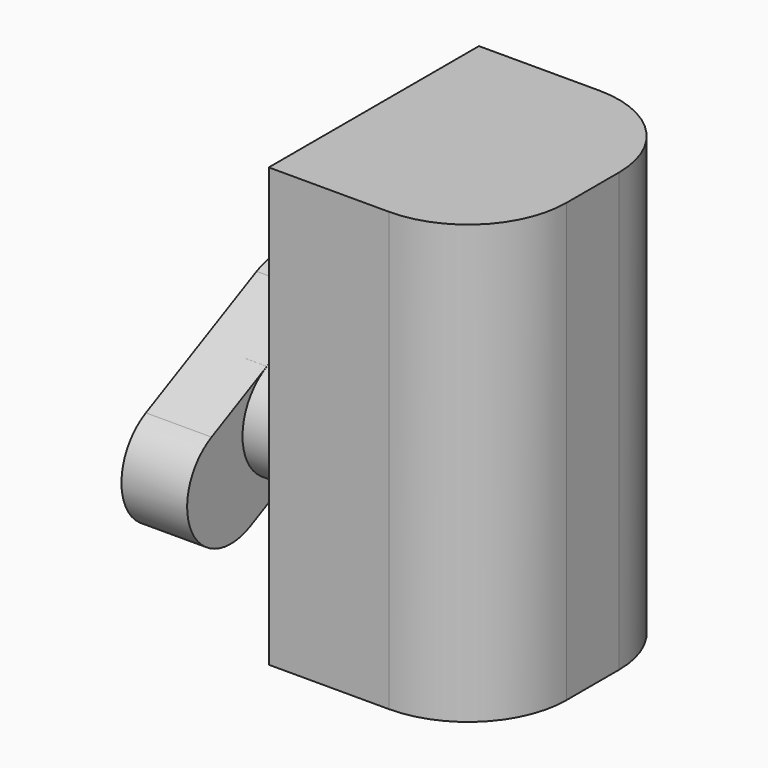
from build123d import *

# Parameters (mm, degrees)
PAD_DEPTH    = 20
FILLET_R     = 4.5
SKETCH001_R  = 2.5
PAD001_DEPTH = 5
PAD002_DEPTH = 3


with BuildPart() as part:
    # Sketch → Pad (new body)
    with BuildSketch(Plane.XY):
        Polygon((0, -2.5), (0, -6), (10, -6), (10, 6), (0, 6), (0, 2.5), align=None)
    extrude(amount=PAD_DEPTH)

    # Fillet
    fillet_edges = [part.edges().sort_by_distance(p)[0] for p in [
        (10, -6, 10),
        (10, 6, 10),
    ]]
    fillet(fillet_edges, radius=FILLET_R)

    # Sketch001 → Pad001 (join)
    with BuildSketch(Plane.YZ):
        with Locations((0, 6.466317)):
            Circle(SKETCH001_R)
    extrude(amount=-PAD001_DEPTH)

    # Sketch002 → Pad002 (join)
    with BuildSketch(Plane(origin=(-4, 0, 0), x_dir=(0, 0.838671, 0.544639), z_dir=(1, 0, 0))):
        with BuildLine():
            ThreePointArc((6.72858, 2.526992), (9.504552, 4.716507), (7.315037, 7.49248))
            Line((7.315037, 7.49248), (0.315037, 8.319227))
            ThreePointArc((0.315037, 8.319227), (-2.460935, 6.129712), (-0.27142, 3.353739))
            Line((6.72858, 2.526992), (-0.27142, 3.353739))
        make_face()
    extrude(amount=-PAD002_DEPTH)


solid = part.part
